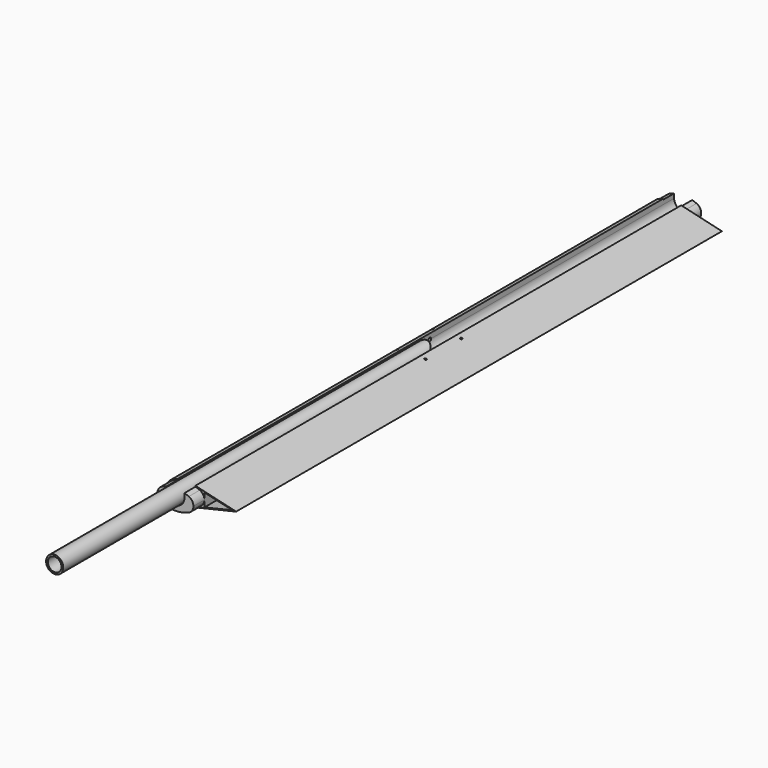
from build123d import *

# Parameters (mm, degrees)
F1_DEPTH      = 561.975
F2_DEPTH      = 561.975
F3_DEPTH      = 561.975
F4_DEPTH      = 4.7625
F6_DEPTH      = 25.4
F7_DEPTH      = 1149.35
F8_R          = 3
F9_DEPTH      = 50.8
F9_DEPTH_BACK = 19.05
F10_R         = 3
F10_R_2       = 2
F11_DEPTH     = 25.4
F12_DEPTH     = 25.4
F13_W         = 406.4
F13_H         = 3.2512
F16_DEPTH     = 19.05
F18_DEPTH     = 25.4


with BuildPart() as f1:
    # F0 (on Front) → F1 (new body, symmetric)
    with BuildSketch(Plane.XZ):
        with BuildLine():
            ThreePointArc((-16.66875, 17.6241480244), (-21.0904723366, 16.2462248873), (-25.4, 14.5496778315))
            ThreePointArc((-25.4, 14.5496778315), (-34.925, 0), (-25.4, -14.5496778315))
            ThreePointArc((-25.4, -14.5496778315), (-5.751532641, -19.5899566325), (14.4838437738, -18.1770796741))
            Line((14.4838437738, -18.1770796741), (14.4838437738, -16.5465995286))
            Line((14.4838437738, -16.5465995286), (33.3375, -12.1298022022))
            Line((33.3375, -12.1298022022), (33.3375, 12.1298022022))
            Line((33.3375, 12.1298022022), (16.66875, 16.0347471927))
            Line((16.66875, 16.0347471927), (16.66875, 7.9375))
            ThreePointArc((16.66875, 7.9375), (0, -8.73125), (-16.66875, 7.9375))
            Line((-16.66875, 7.9375), (-16.66875, 17.6241480244))
        make_face()
    extrude(amount=F1_DEPTH, both=True)

    # F5 (on face) → F6 (join)
    with BuildSketch(Plane.XZ.offset(561.975)):
        with BuildLine():
            ThreePointArc((16.66875, 7.9375), (0, -8.73125), (-16.66875, 7.9375))
            Line((-16.66875, 7.9375), (-16.66875, 15.9773904272))
            ThreePointArc((-16.66875, 15.9773904272), (-20.7669538283, 14.6767008339), (-24.765, 13.0947100483))
            ThreePointArc((-24.765, 13.0947100483), (-33.3375, 0), (-24.765, -13.0947100483))
            ThreePointArc((-24.765, -13.0947100483), (0, -18.2634665055), (24.765, -13.0947100483))
            ThreePointArc((24.765, -13.0947100483), (31.0037801291, -7.8255860404), (33.3375, 0))
            ThreePointArc((33.3375, 0), (31.0037801291, 7.8255860404), (24.765, 13.0947100483))
            ThreePointArc((24.765, 13.0947100483), (20.7669538283, 14.6767008339), (16.66875, 15.9773904272))
            Line((16.66875, 15.9773904272), (16.66875, 7.9375))
        make_face()
    extrude(amount=F6_DEPTH)

    # F5 (on face) → F7 (join)
    with BuildSketch(Plane.XZ.offset(561.975)):
        with BuildLine():
            ThreePointArc((16.66875, 7.9375), (0, -8.73125), (-16.66875, 7.9375))
            Line((-16.66875, 7.9375), (-16.66875, 15.9773904272))
            ThreePointArc((-16.66875, 15.9773904272), (-20.7669538283, 14.6767008339), (-24.765, 13.0947100483))
            ThreePointArc((-24.765, 13.0947100483), (-33.3375, 0), (-24.765, -13.0947100483))
            ThreePointArc((-24.765, -13.0947100483), (0, -18.2634665055), (24.765, -13.0947100483))
            ThreePointArc((24.765, -13.0947100483), (33.3375, 0), (24.765, 13.0947100483))
            ThreePointArc((24.765, 13.0947100483), (20.7669538283, 14.6767008339), (16.66875, 15.9773904272))
            Line((16.66875, 15.9773904272), (16.66875, 7.9375))
        make_face()
    extrude(amount=-F7_DEPTH)

    # F8 (on Right) → F9 (cut, two sides)
    with BuildSketch(Plane.YZ) as f9_sk:
        with Locations((-22.225, 7.9375)):
            Circle(F8_R)
        with Locations((22.225, 7.9375)):
            Circle(F8_R)
    extrude(amount=-F9_DEPTH, mode=Mode.SUBTRACT)
    extrude(f9_sk.sketch, amount=F9_DEPTH_BACK, mode=Mode.SUBTRACT)


with BuildPart() as f2:
    # F0 (on Front) → F2 (new body, symmetric)
    with BuildSketch(Plane.XZ):
        Polygon((85.1150899392, 0), (92.075, 0), (16.66875, 17.6652273383), (16.66875, 16.0347471927), (33.3375, 12.1298022022), align=None)
    extrude(amount=F2_DEPTH, both=True)


with BuildPart() as f3:
    # F0 (on Front) → F3 (new body, symmetric)
    with BuildSketch(Plane.XZ):
        Polygon((14.4838437738, -16.5465995286), (14.4838437738, -18.1770796741), (92.075, 0), (85.1150899392, 0), (33.3375, -12.1298022022), align=None)
    extrude(amount=F3_DEPTH, both=True)


with BuildPart() as f4:
    # F0 (on Front) → F4 (new body, symmetric)
    with BuildSketch(Plane.XZ):
        Polygon((33.3375, 12.1298022022), (33.3375, -12.1298022022), (85.1150899392, 0), align=None)
        with BuildLine():
            ThreePointArc((44.4233633021, -6.271785361), (36.5125, 0), (44.4233633021, 6.271785361))
            Line((44.4233633021, 6.271785361), (64.5974558512, 1.5456528292))
            ThreePointArc((64.5974558512, 1.5456528292), (65.8228597569, 0), (64.5974558512, -1.5456528292))
            Line((64.5974558512, -1.5456528292), (44.4233633021, -6.271785361))
        make_face(mode=Mode.SUBTRACT)
    extrude(amount=F4_DEPTH, both=True)


with BuildPart() as f11_tool:
    # F10 (on Top) → F11 (new body, symmetric)
    with BuildSketch(Plane.XY):
        Circle(F10_R)
        with Locations((-26.19375, 41.275)):
            Circle(F10_R_2)
        with Locations((26.19375, 41.275)):
            Circle(F10_R_2)
        with Locations((-26.19375, -41.275)):
            Circle(F10_R_2)
        with Locations((26.19375, -41.275)):
            Circle(F10_R_2)
    extrude(amount=F11_DEPTH, both=True)


with BuildPart() as f1_1:
    add(f1.part)

    # F11: cut by f11_tool
    add(f11_tool.part, mode=Mode.SUBTRACT)

    # F10 (on Top) → F12 (cut, symmetric)
    with BuildSketch(Plane.XY):
        with Locations((26.19375, 41.275)):
            Circle(F10_R_2)
        with Locations((26.19375, -41.275)):
            Circle(F10_R_2)
    extrude(amount=F12_DEPTH, both=True, mode=Mode.SUBTRACT)


with BuildPart() as f2_1:
    add(f2.part)

    # F11: cut by f11_tool
    add(f11_tool.part, mode=Mode.SUBTRACT)


with BuildPart() as f3_1:
    add(f3.part)

    # F11: cut by f11_tool
    add(f11_tool.part, mode=Mode.SUBTRACT)


with BuildPart() as f14:
    # F13 (on Right) → F14 (revolve)
    with BuildSketch(Plane.YZ):
        Polygon((-6.35, 20.5613), (-6.35, 23.8125), (-866.775, 23.8125), (-866.775, 20.5613), (-714.375, 20.5613), (-307.975, 20.5613), align=None)
    revolve(axis=Axis((0, -439.583996582, 7.9375), (0, -1, 0)))

    # F8 (on Right) → F16 (cut, symmetric)
    with BuildSketch(Plane.YZ):
        with Locations((-22.225, 7.9375)):
            Circle(F8_R)
    extrude(amount=F16_DEPTH, both=True, mode=Mode.SUBTRACT)

    # F17 (on Top) → F18 (cut, symmetric)
    with BuildSketch(Plane.XY):
        with BuildLine():
            ThreePointArc((-15.875, -22.225), (0, -6.35), (15.875, -22.225))
            Line((15.875, -22.225), (19.05, -22.225))
            Line((19.05, -22.225), (19.05, -3.175))
            Line((19.05, -3.175), (-19.05, -3.175))
            Line((-19.05, -3.175), (-19.05, -22.225))
            Line((-19.05, -22.225), (-15.875, -22.225))
        make_face()
    extrude(amount=F18_DEPTH, both=True, mode=Mode.SUBTRACT)


with BuildPart() as f15:
    # F13 (on Right) → F15 (revolve)
    with BuildSketch(Plane.YZ):
        with Locations((-511.175, 18.9357)):
            Rectangle(F13_W, F13_H)
    revolve(axis=Axis((0, -439.583996582, 7.9375), (0, -1, 0)))


solid = Compound([f4.part, f1_1.part, f2_1.part, f3_1.part, f14.part, f15.part])
